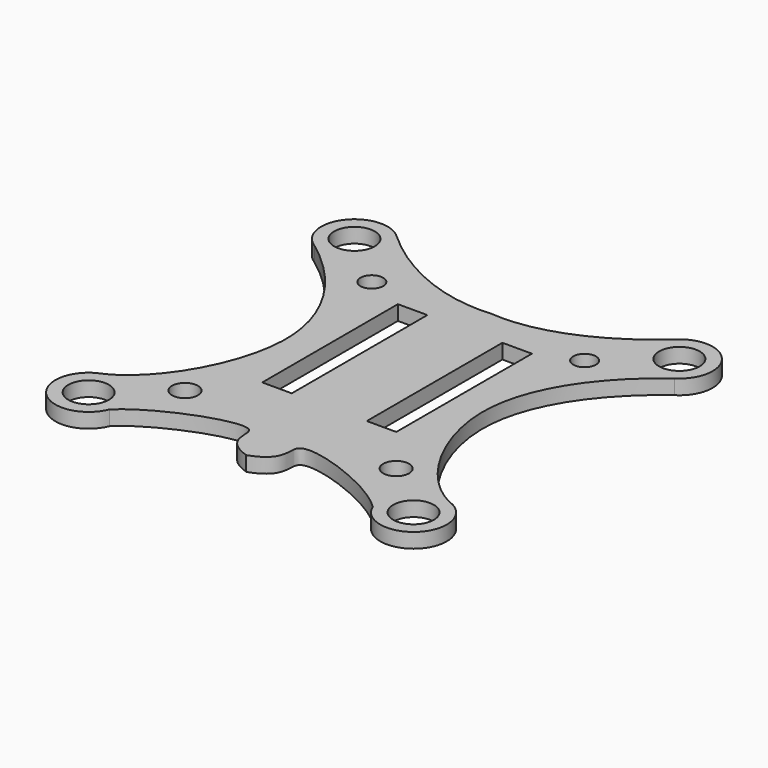
from build123d import *

# Parameters (mm, degrees)
F0_R     = 0.6985
F0_R_2   = 0.4455322906
F0_W     = 1.0151027236
F0_H     = 5.8303333353
F0_R_3   = 0.3904241603
F1_DEPTH = 0.508


with BuildPart() as f1:
    # F0 (on Top) → F1 (new body)
    with BuildSketch(Plane.XY):
        with BuildLine():
            add(Edge.make_bspline(
                [(-4.8071383511, 6.5496880167), (-3.5494174307, 5.3943343251), (-1.775382203, 4.4622034766), (0, 4.6114819124)],
                knots=[0, 0, 0, 0, 5.1831671813, 5.1831671813, 5.1831671813, 5.1831671813], degree=3))
            ThreePointArc((-4.8071383511, 6.5496880167), (-6.4941252197, 6.4116965525), (-6.1940324141, 4.7458902471))
            add(Edge.make_bspline(
                [(-6.1940324141, 4.7458902471), (-4.693901011, 3.6446792104), (-2.0902496032, 0.2759509244), (-4.6702187254, -4.0639645625), (-5.9934721436, -4.646336657)],
                knots=[0, 0, 0, 0, 0.5042985744, 1, 1, 1, 1], degree=3))
            ThreePointArc((-5.9934721436, -4.646336657), (-6.4052483977, -6.5140957742), (-4.5287124963, -6.1443704514))
            add(Edge.make_bspline(
                [(-4.5287124963, -6.1443704514), (-3.6492146823, -5.2652203685), (0.1529797259, -3.8611909007), (-1.1026566893, -5.5442661801), (0, -5.9233158827)],
                knots=[0, 0, 0, 0, 0.6177222982, 1, 1, 1, 1], degree=3))
            add(Edge.make_bspline(
                [(4.5287124963, -6.1443704514), (3.6492146823, -5.2652203685), (-0.1529797259, -3.8611909007), (1.1026566893, -5.5442661801), (0, -5.9233158827)],
                knots=[0, 0, 0, 0, 0.6177222982, 1, 1, 1, 1], degree=3))
            ThreePointArc((4.5287124963, -6.1443704514), (6.4052483977, -6.5140957742), (5.9934721436, -4.646336657))
            add(Edge.make_bspline(
                [(6.1940324141, 4.7458902471), (4.693901011, 3.6446792104), (2.0902496032, 0.2759509244), (4.6702187254, -4.0639645625), (5.9934721436, -4.646336657)],
                knots=[0, 0, 0, 0, 0.5042985744, 1, 1, 1, 1], degree=3))
            ThreePointArc((6.1940324141, 4.7458902471), (6.4941252197, 6.4116965525), (4.8071383511, 6.5496880167))
            add(Edge.make_bspline(
                [(4.8071383511, 6.5496880167), (3.5494174307, 5.3943343251), (1.775382203, 4.4622034766), (0, 4.6114819124)],
                knots=[0, 0, 0, 0, 5.1831671813, 5.1831671813, 5.1831671813, 5.1831671813], degree=3))
        make_face()
        with Locations((-5.588, -5.715)):
            Circle(F0_R, mode=Mode.SUBTRACT)
        with Locations((-3.6327592097, -4.0190205909)):
            Circle(F0_R_2, mode=Mode.SUBTRACT)
        with Locations((5.588, -5.715)):
            Circle(F0_R, mode=Mode.SUBTRACT)
        with Locations((3.6327592097, -4.0190205909)):
            Circle(F0_R_2, mode=Mode.SUBTRACT)
        with Locations((-1.7977658426, 0.5619557342)):
            Rectangle(F0_W, F0_H, mode=Mode.SUBTRACT)
        with Locations((-3.6587875802, 4.049744457)):
            Circle(F0_R_3, mode=Mode.SUBTRACT)
        with Locations((-5.588, 5.715)):
            Circle(F0_R, mode=Mode.SUBTRACT)
        with Locations((1.7977658426, 0.5619557342)):
            Rectangle(F0_W, F0_H, mode=Mode.SUBTRACT)
        with Locations((3.6587875802, 4.049744457)):
            Circle(F0_R_3, mode=Mode.SUBTRACT)
        with Locations((5.588, 5.715)):
            Circle(F0_R, mode=Mode.SUBTRACT)
    extrude(amount=F1_DEPTH)


solid = f1.part
